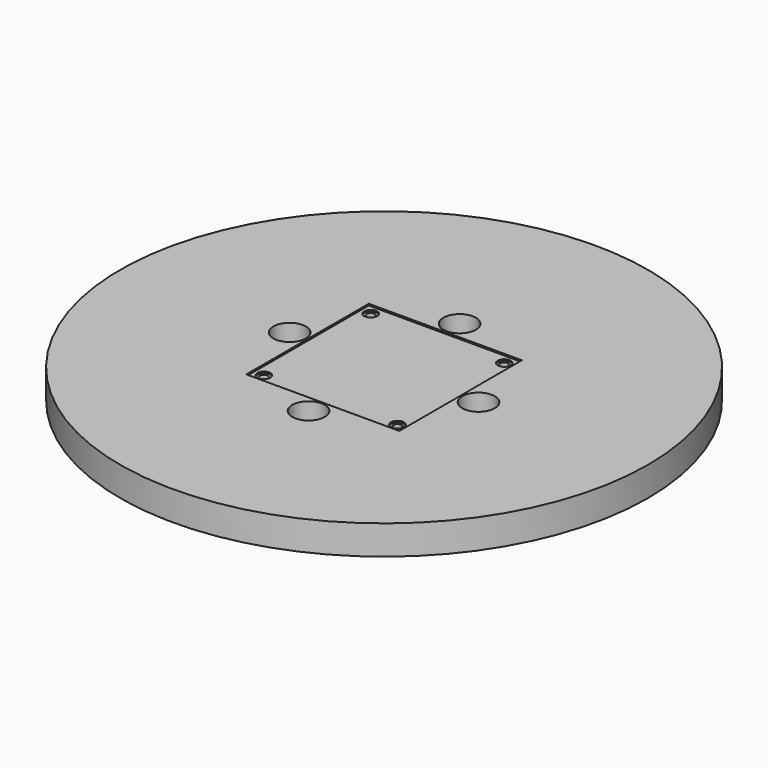
from build123d import *

# Parameters (mm, degrees)
SKETCH003_R      = 162.0844056183
PAD002_DEPTH     = 18
SKETCH009_W      = 94
SKETCH009_H      = 94
POCKET002_DEPTH  = 1
HOLE_D           = 5
HOLE_DEPTH       = 10
HOLE_CBORE_D     = 8
HOLE_CBORE_DEPTH = 1
SKETCH011_R      = 10
POCKET003_DEPTH  = 18.001


with BuildPart() as part:
    # Sketch003 → Pad002 (new body)
    with BuildSketch(Plane.XY):
        Circle(SKETCH003_R)
    extrude(amount=PAD002_DEPTH)

    # Sketch009 (on Face3 of Pad002) → Pocket002 (cut)
    with BuildSketch(Plane.XY.offset(18)):
        Rectangle(SKETCH009_W, SKETCH009_H)
    extrude(amount=-POCKET002_DEPTH, mode=Mode.SUBTRACT)

    # Hole
    with Locations(Plane.XY.offset(17)):
        with Locations((-41, 41), (41, 41), (-41, -41), (41, -41)):
            CounterBoreHole(HOLE_D / 2, HOLE_CBORE_D / 2, HOLE_CBORE_DEPTH, depth=HOLE_DEPTH)

    # Sketch011 (on Face3 of Hole) → Pocket003 (cut, through all)
    with BuildSketch(Plane.XY.offset(18)):
        with Locations((-57.9827560573, 0)):
            Circle(SKETCH011_R)
        with Locations((0, 57.9827560573)):
            Circle(SKETCH011_R)
        with Locations((57.9827560573, 0)):
            Circle(SKETCH011_R)
        with Locations((0, -57.9827560573)):
            Circle(SKETCH011_R)
    extrude(amount=-POCKET003_DEPTH, mode=Mode.SUBTRACT)


solid = part.part
